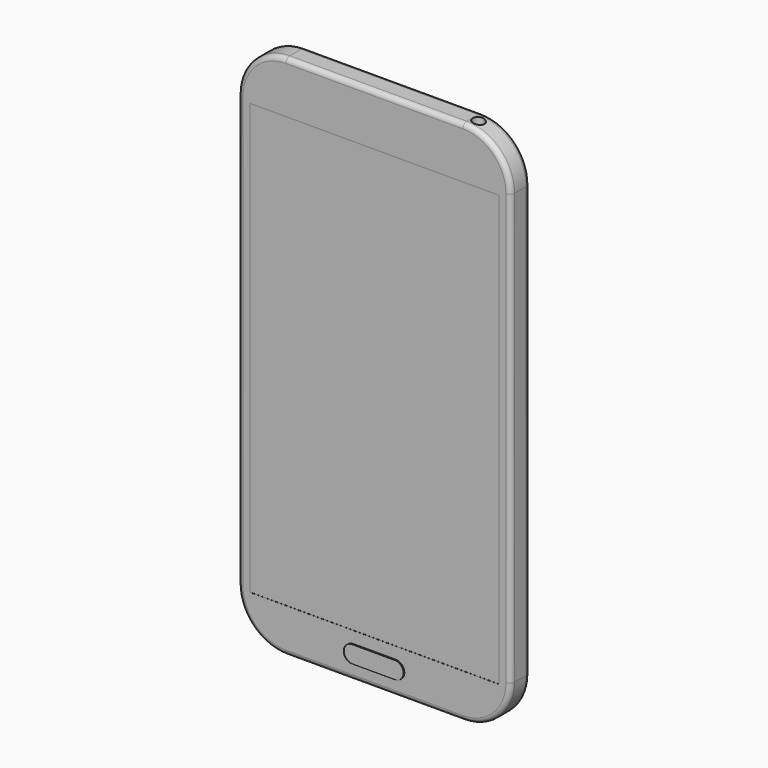
from build123d import *

# Parameters (mm, degrees)
F1_DEPTH  = 6.35
F3_DEPTH  = 0.254
F4_R      = 1.27
F5_W      = 66.04
F5_H      = 114.3
F6_DEPTH  = 0.0254
F8_W      = 1.5875
F8_H      = 22.225
F9_DEPTH  = 0.0254
F11_R     = 1.524
F12_DEPTH = 25.4


with BuildPart() as f1:
    # F0 (on Front) → F1 (new body)
    with BuildSketch(Plane.XZ):
        with BuildLine():
            Line((59.69, 0), (12.7, 0))
            ThreePointArc((12.7, 0), (3.7197438789, -3.7197438789), (0, -12.7))
            Line((0, -12.7), (0, -127))
            ThreePointArc((0, -127), (3.7197438789, -135.9802561211), (12.7, -139.7))
            Line((12.7, -139.7), (59.69, -139.7))
            ThreePointArc((59.69, -139.7), (68.6702561211, -135.9802561211), (72.39, -127))
            Line((72.39, -127), (72.39, -12.7))
            ThreePointArc((72.39, -12.7), (68.6702561211, -3.7197438789), (59.69, 0))
        make_face()
    extrude(amount=F1_DEPTH)

    # F2 (on face) → F3 (join)
    with BuildSketch(Plane.XZ.offset(6.35)):
        with BuildLine():
            Line((41.8465, -131.1656), (30.5435, -131.1656))
            ThreePointArc((30.5435, -131.1656), (28.2575, -133.4516), (30.5435, -135.7376))
            Line((30.5435, -135.7376), (41.8465, -135.7376))
            ThreePointArc((41.8465, -135.7376), (44.1325, -133.4516), (41.8465, -131.1656))
        make_face()
    extrude(amount=F3_DEPTH)

    # F4
    f4_edges = [f1.edges().sort_by_distance(p)[0] for p in [
        (72.39, -6.35, -69.85),
        (72.39, 0, -69.85),
    ]]
    fillet(f4_edges, radius=F4_R)

    # F5 (on face) → F6 (cut)
    with BuildSketch(Plane.XZ.offset(6.35)):
        with Locations((36.195, -70.8406)):
            Rectangle(F5_W, F5_H)
    extrude(amount=-F6_DEPTH, mode=Mode.SUBTRACT)

    # F8 (on offset) → F9 (join)
    with BuildSketch(Plane(origin=(0, 0, 0), x_dir=(0, -1, 0), z_dir=(-1, 0, 0))):
        with Locations((3.19405, -30.1625)):
            Rectangle(F8_W, F8_H)
    extrude(amount=F9_DEPTH)

    # F11 (on offset) → F12 (cut)
    with BuildSketch(Plane.XY):
        with Locations((61.3411824728, -3.2385)):
            Circle(F11_R)
    extrude(amount=-F12_DEPTH, mode=Mode.SUBTRACT)


solid = f1.part
